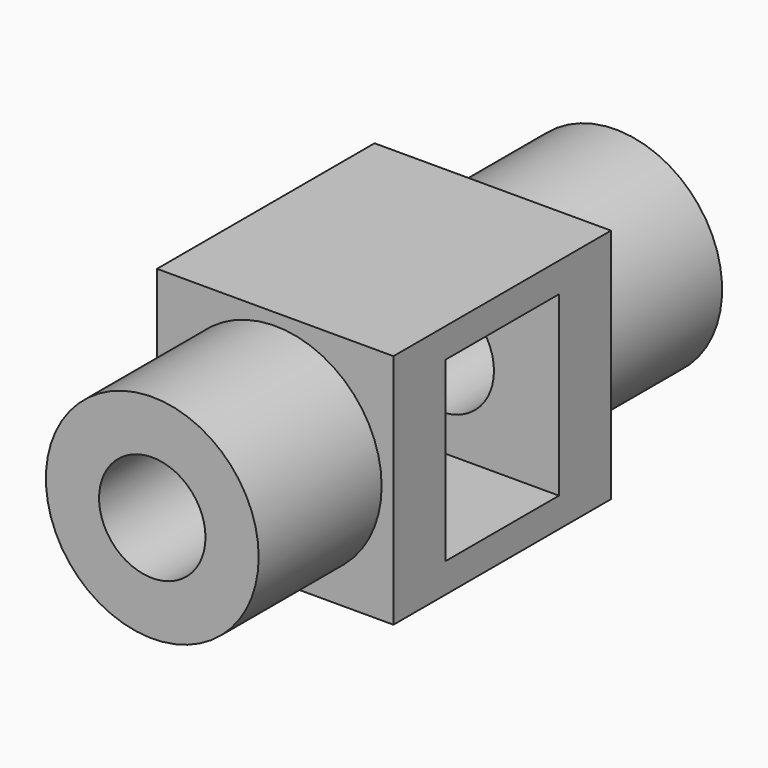
from build123d import *

# Parameters (mm, degrees)
F0_W     = 40
F0_H     = 46
F1_DEPTH = 40
F2_R     = 18
F3_DEPTH = 26
F4_R     = 18
F5_DEPTH = 26
F8_D     = 18
F6_W     = 24
F6_H     = 30
F9_DEPTH = 50


with BuildPart() as f1:
    # F0 (on Top) → F1 (new body)
    with BuildSketch(Plane.XY):
        with Locations((-54.399494, -49.857425)):
            Rectangle(F0_W, F0_H)
    extrude(amount=F1_DEPTH)

    # F2 (on face) → F3 (join)
    with BuildSketch(Plane.XZ.offset(72.857425)):
        with Locations((-54.399494, 20)):
            Circle(F2_R)
    extrude(amount=F3_DEPTH)

    # F4 (on face) → F5 (join)
    with BuildSketch(Plane(origin=(0, -26.857425, 0), x_dir=(-1, 0, 0), z_dir=(0, 1, 0))):
        with Locations((54.399494, 20)):
            Circle(F4_R)
    extrude(amount=F5_DEPTH)

    # F8 (through all)
    with Locations(Plane(origin=(0, -0.857425, 0), x_dir=(-1, 0, 0), z_dir=(0, 1, 0))):
        with Locations((54.399494, 20)):
            Hole(F8_D / 2)

    # F6 (on face) → F9 (cut)
    with BuildSketch(Plane(origin=(-74.399494, 0, 0), x_dir=(0, -1, 0), z_dir=(-1, 0, 0))):
        with Locations((49.857425, 20)):
            Rectangle(F6_W, F6_H)
    extrude(amount=-F9_DEPTH, mode=Mode.SUBTRACT)


solid = f1.part
